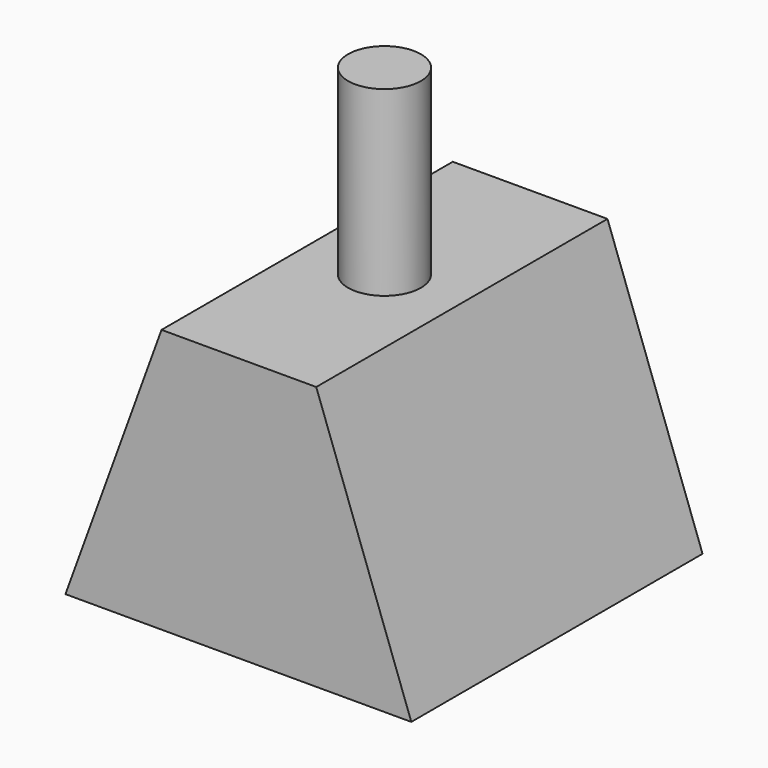
from build123d import *

# Parameters (mm, degrees)
F1_DEPTH = 25.4
F2_R     = 2.54
F3_DEPTH = 12.7


with BuildPart() as f1:
    # F0 (on Front) → F1 (new body)
    with BuildSketch(Plane.XZ):
        Polygon((-5.362488, 18.415), (-12.065, 0), (12.065, 0), (5.432512, 18.415), align=None)
    extrude(amount=-F1_DEPTH)

    # F2 (on face) → F3 (join)
    with BuildSketch(Plane.XY.offset(18.415)):
        with Locations((0.035012, 12.7)):
            Circle(F2_R)
    extrude(amount=F3_DEPTH)


solid = f1.part
